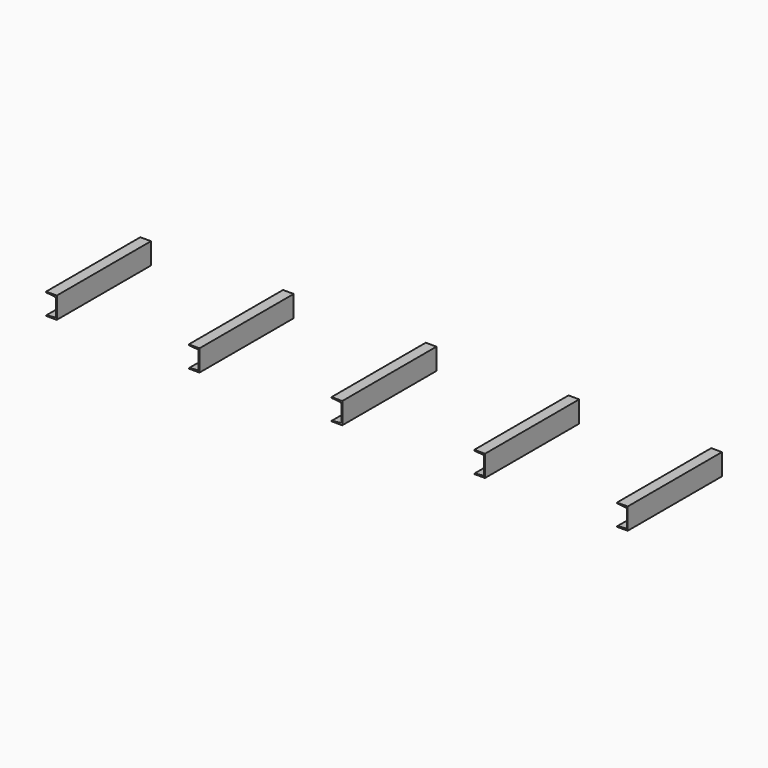
from build123d import *

# Parameters (mm, degrees)
EXTRUDE010_DEPTH = 412.5
ARRAY006_X_COUNT = 5
ARRAY006_X_PITCH = 1000


with BuildPart() as array006:
    # ChannelSteel001 → Extrude010 (new body, symmetric)
    with BuildSketch(Plane(origin=(335.972054, 0, 275), x_dir=(1, 0, 0), z_dir=(0, 1, 0))):
        with BuildLine():
            Line((-20.972054, 75), (-20.972054, -75))
            Line((-20.972054, -75), (54.027946, -75))
            Line((54.027946, -75), (54.027946, -74.148564))
            ThreePointArc((54.027946, -74.148564), (52.714332, -70.770613), (49.463724, -69.167591))
            Line((49.463724, -69.167591), (-3.600497, -64.525073))
            ThreePointArc((-3.600497, -64.525073), (-11.223735, -61.903182), (-14.472054, -54.525073))
            Line((-14.472054, -54.525073), (-14.472054, 54.525073))
            ThreePointArc((-14.472054, 54.525073), (-11.223735, 61.903182), (-3.600497, 64.525073))
            Line((-3.600497, 64.525073), (49.463724, 69.167591))
            ThreePointArc((49.463724, 69.167591), (52.714332, 70.770613), (54.027946, 74.148564))
            Line((54.027946, 74.148564), (54.027946, 75))
            Line((54.027946, 75), (-20.972054, 75))
        make_face()
    extrude(amount=EXTRUDE010_DEPTH, both=True)


with BuildPart() as array006_1:
    # Clone002 placement: moved
    add(array006.part.moved(Location((1250, 0, 0))))

    # Array006 X: Array006 ×5


with BuildPart() as array006_2:
    add(array006_1.part)
    with Locations(*[(i * ARRAY006_X_PITCH, 0, 0) for i in range(1, ARRAY006_X_COUNT)]):
        add(array006_1.part)


with BuildPart() as array006_mirrored:
    # Mirror: instance of Array006
    add(array006_2.part.mirror(Plane(origin=(0, 1200, 0), x_dir=(0, -1, 0), z_dir=(1, 0, 0))))


solid = array006_mirrored.part
